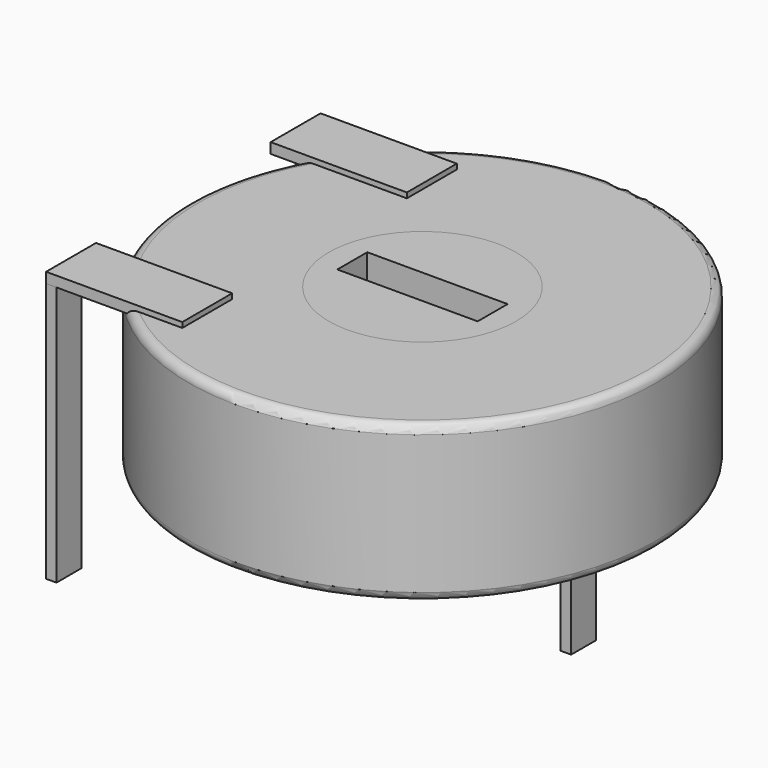
from build123d import *

# Parameters (mm, degrees)
SKETCH003_W       = 0.333334
SKETCH003_H       = 1
PAD002_DEPTH      = 5.333333
PAD002_DEPTH_BACK = 3
SKETCH004_R       = 3
SKETCH004_W       = 4.5
SKETCH004_H       = 1.2
PAD003_DEPTH      = 5
SKETCH_R          = 7.5
SKETCH_R_2        = 3
PAD_DEPTH         = 5
FILLET_R          = 0.275
SKETCH005_W       = 4.366667
SKETCH005_H       = 2
PAD004_DEPTH      = 0.333333


with BuildPart() as pad002:
    # Sketch003 → Pad002 (new body, two sides)
    with BuildSketch(Plane(origin=(0, 10, 0), x_dir=(1, 0, 0), z_dir=(0, 0, 1))) as pad002_sk:
        Rectangle(SKETCH003_W, SKETCH003_H)
        with Locations((12.5, -5)):
            Rectangle(SKETCH003_W, SKETCH003_H)
        with Locations((0, -10)):
            Rectangle(SKETCH003_W, SKETCH003_H)
    extrude(amount=PAD002_DEPTH)
    extrude(pad002_sk.sketch, amount=-PAD002_DEPTH_BACK)


with BuildPart() as pad003:
    # Sketch004 → Pad003 (new body)
    with BuildSketch(Plane(origin=(0, 10, 0.5), x_dir=(1, 0, 0), z_dir=(0, 0, 1))):
        with Locations((7.5, -5)):
            Circle(SKETCH004_R)
        with Locations((7.5, -5)):
            Rectangle(SKETCH004_W, SKETCH004_H, mode=Mode.SUBTRACT)
    extrude(amount=PAD003_DEPTH)


with BuildPart() as fillet_body:
    # Sketch → Pad (new body)
    with BuildSketch(Plane(origin=(0, 10, 0.5), x_dir=(1, 0, 0), z_dir=(0, 0, 1))):
        with Locations((7.5, -5)):
            Circle(SKETCH_R)
        with Locations((7.5, -5)):
            Circle(SKETCH_R_2, mode=Mode.SUBTRACT)
    extrude(amount=PAD_DEPTH)

    # Fillet
    fillet_edges = [fillet_body.edges().sort_by_distance(p)[0] for p in [
        (0, 5, 0.5),
        (0, 5, 5.5),
    ]]
    fillet(fillet_edges, radius=FILLET_R)


with BuildPart() as pad004:
    # Sketch005 → Pad004 (new body)
    with BuildSketch(Plane(origin=(0, 10, 5.333333), x_dir=(1, 0, 0), z_dir=(0, 0, 1))):
        with Locations((2.016666, -0.5)):
            Rectangle(SKETCH005_W, SKETCH005_H)
        with Locations((2.016666, -9.5)):
            Rectangle(SKETCH005_W, SKETCH005_H)
    extrude(amount=PAD004_DEPTH)


solid = Compound([pad002.part, pad003.part, fillet_body.part, pad004.part])
